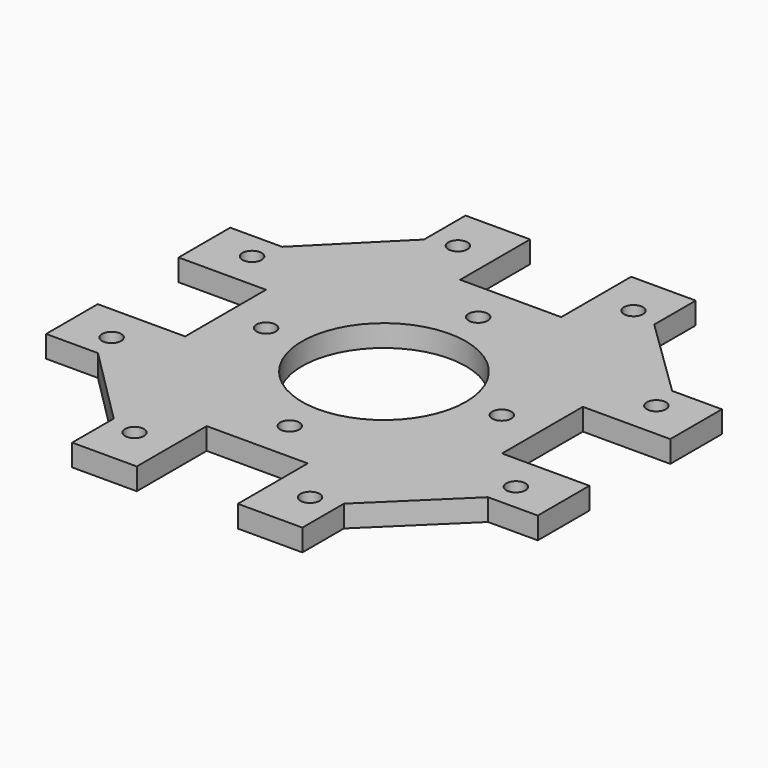
from build123d import *

# Parameters (mm, degrees)
F0_R     = 1.75
F0_R_2   = 15
F1_DEPTH = 4


with BuildPart() as f1:
    # F0 (on Top) → F1 (new body)
    with BuildSketch(Plane.XY):
        Polygon((23.931458, 9.5), (23.931458, 0), (35.75, 0), (35.75, 16), (54.25, 16), (54.25, 0), (66.068542, 0), (66.068542, 9.5), (80.900239, 23.931458), (90.006756, 23.931458), (90.006756, 35.75), (74.006756, 35.75), (74.006756, 54.25), (90.006756, 54.25), (90.006756, 66.068542), (80.900239, 66.068542), (66.068542, 80.5), (66.068542, 90), (54.25, 90), (54.25, 74), (35.75, 74), (35.75, 90), (23.931458, 90), (23.931458, 80.5), (9.5, 66.068542), (0.006756, 66.068542), (0.006756, 54.25), (16.006756, 54.25), (16.006756, 35.75), (0.006756, 35.75), (0.006756, 23.931458), (9.5, 23.931458), align=None)
        with Locations((28.931458, 8)):
            Circle(F0_R, mode=Mode.SUBTRACT)
        with Locations((8.006756, 28.931458)):
            Circle(F0_R, mode=Mode.SUBTRACT)
        with Locations((45, 23.433243)):
            Circle(F0_R, mode=Mode.SUBTRACT)
        with Locations((61.068542, 8)):
            Circle(F0_R, mode=Mode.SUBTRACT)
        with Locations((82.006757, 28.931458)):
            Circle(F0_R, mode=Mode.SUBTRACT)
        with Locations((8, 61.068542)):
            Circle(F0_R, mode=Mode.SUBTRACT)
        with Locations((23.433243, 45)):
            Circle(F0_R, mode=Mode.SUBTRACT)
        with Locations((45, 45)):
            Circle(F0_R_2, mode=Mode.SUBTRACT)
        with Locations((45, 66.566757)):
            Circle(F0_R, mode=Mode.SUBTRACT)
        with Locations((28.931458, 82)):
            Circle(F0_R, mode=Mode.SUBTRACT)
        with Locations((66.566757, 45)):
            Circle(F0_R, mode=Mode.SUBTRACT)
        with Locations((82.006756, 61.068542)):
            Circle(F0_R, mode=Mode.SUBTRACT)
        with Locations((61.068542, 82.006756)):
            Circle(F0_R, mode=Mode.SUBTRACT)
    extrude(amount=F1_DEPTH)


solid = f1.part
